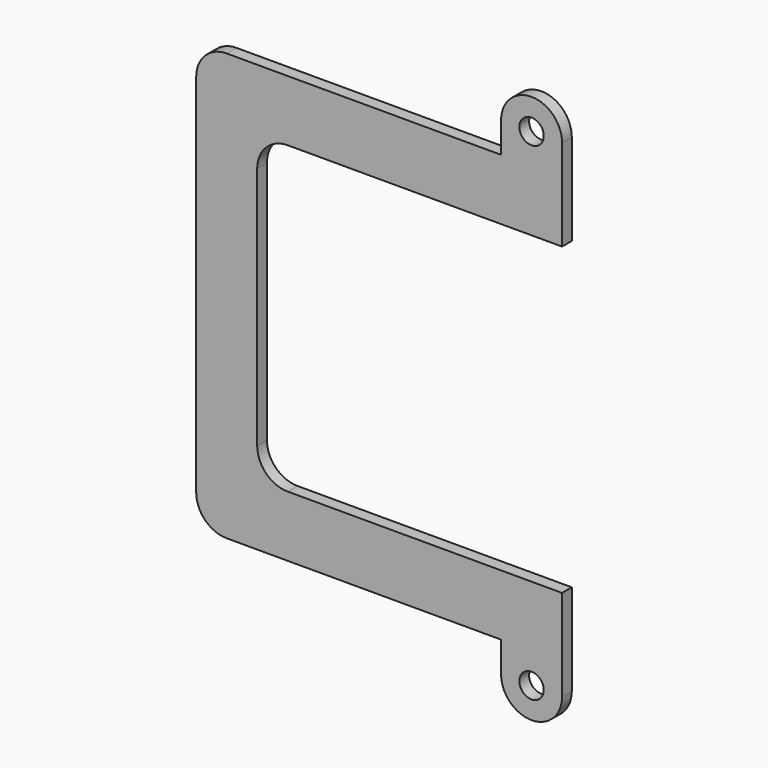
from build123d import *

# Parameters (mm, degrees)
F0_R     = 20
F1_DEPTH = 20


with BuildPart() as f1:
    # F0 (on Front) → F1 (new body)
    with BuildSketch(Plane.XZ):
        with BuildLine():
            Line((0, 300), (0, 0))
            Line((0, 0), (0, -300))
            ThreePointArc((0, -300), (14.644661, -335.355339), (50, -350))
            Line((50, -350), (500, -350))
            Line((500, -350), (500, -400))
            ThreePointArc((500, -400), (550, -450), (600, -400))
            Line((600, -400), (600, -250))
            Line((600, -250), (150, -250))
            ThreePointArc((150, -250), (114.644661, -235.355339), (100, -200))
            Line((100, -200), (100, 0))
            Line((100, 0), (100, 200))
            ThreePointArc((100, 200), (114.644661, 235.355339), (150, 250))
            Line((150, 250), (600, 250))
            Line((600, 250), (600, 400))
            ThreePointArc((600, 400), (550, 450), (500, 400))
            Line((500, 400), (500, 350))
            Line((500, 350), (50, 350))
            ThreePointArc((50, 350), (14.644661, 335.355339), (0, 300))
        make_face()
        with Locations((550, -400)):
            Circle(F0_R, mode=Mode.SUBTRACT)
        with Locations((550, 400)):
            Circle(F0_R, mode=Mode.SUBTRACT)
    extrude(amount=F1_DEPTH)


solid = f1.part
